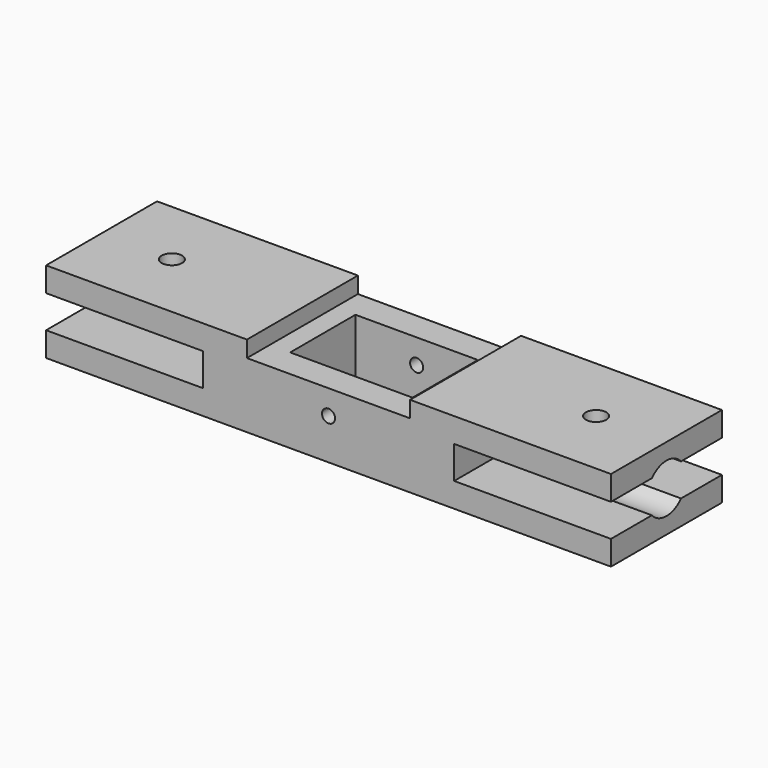
from build123d import *

# Parameters (mm, degrees)
F0_W      = 69.24
F0_H      = 17
F0_R      = 1.25
F0_W_2    = 15
F0_H_2    = 10
F1_DEPTH  = 5
F2_R      = 0.8
F2_W      = 19.22
F2_H      = 4
F3_DEPTH  = 25
F4_R      = 1.25
F5_DEPTH  = 25
F6_R      = 3
F7_DEPTH  = 17
F8_R      = 1.25
F9_DEPTH  = 25
F10_R     = 3
F11_DEPTH = 17
F12_W     = 20
F12_H     = 17
F13_DEPTH = 2


with BuildPart() as f1:
    # F0 (on Top) → F1 (new body, symmetric)
    with BuildSketch(Plane.XY):
        Rectangle(F0_W, F0_H)
        with Locations((-26, 0)):
            Circle(F0_R, mode=Mode.SUBTRACT)
        Rectangle(F0_W_2, F0_H_2, mode=Mode.SUBTRACT)
        with Locations((26, 0)):
            Circle(F0_R, mode=Mode.SUBTRACT)
    extrude(amount=F1_DEPTH, both=True)

    # F2 (on face) → F3 (cut)
    with BuildSketch(Plane.XZ.offset(8.5)):
        Circle(F2_R)
        with Locations((-25.01, 0)):
            Rectangle(F2_W, F2_H)
        with Locations((25.01, 0)):
            Rectangle(F2_W, F2_H)
    extrude(amount=-F3_DEPTH, mode=Mode.SUBTRACT)

    # F4 (on face) → F5 (cut)
    with BuildSketch(Plane(origin=(-34.62, 0, 0), x_dir=(0, -1, 0), z_dir=(-1, 0, 0))):
        Circle(F4_R)
    extrude(amount=-F5_DEPTH, mode=Mode.SUBTRACT)

    # F6 (on face) → F7 (cut)
    with BuildSketch(Plane(origin=(-34.62, 0, 0), x_dir=(0, -1, 0), z_dir=(-1, 0, 0))):
        Circle(F6_R)
    extrude(amount=-F7_DEPTH, mode=Mode.SUBTRACT)

    # F8 (on face) → F9 (cut)
    with BuildSketch(Plane.YZ.offset(34.62)):
        Circle(F8_R)
    extrude(amount=-F9_DEPTH, mode=Mode.SUBTRACT)

    # F10 (on face) → F11 (cut)
    with BuildSketch(Plane.YZ.offset(34.62)):
        Circle(F10_R)
    extrude(amount=-F11_DEPTH, mode=Mode.SUBTRACT)

    # F12 (on face) → F13 (cut)
    with BuildSketch(Plane.XY.offset(5)):
        Rectangle(F12_W, F12_H)
    extrude(amount=-F13_DEPTH, mode=Mode.SUBTRACT)


solid = f1.part
